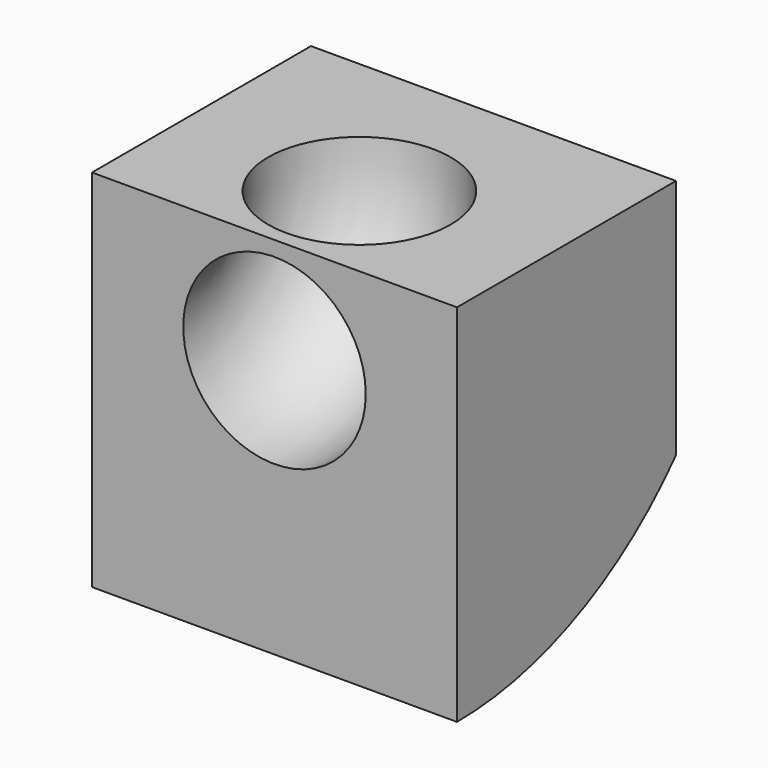
from build123d import *

# Parameters (mm, degrees)
F0_W     = 101.6
F0_H     = 101.6
F1_DEPTH = 38.1
F2_W     = 101.6
F2_H     = 101.6
F2_R     = 25.4


with BuildPart() as f1:
    # F0 (on Front) → F1 (new body, symmetric)
    with BuildSketch(Plane.XZ):
        with Locations((0, 36.593905)):
            Rectangle(F0_W, F0_H)
    extrude(amount=F1_DEPTH, both=True)

    # F2 (on face) → F3 (revolve, intersect)
    with BuildSketch(Plane.XZ.offset(38.1)):
        with Locations((0, 36.593905)):
            Rectangle(F2_W, F2_H)
        with Locations((0, 57.84982)):
            Circle(F2_R, mode=Mode.SUBTRACT)
    revolve(axis=Axis((0, -38.1, 87.393905), (-1, 0, 0)), mode=Mode.INTERSECT)


solid = f1.part
